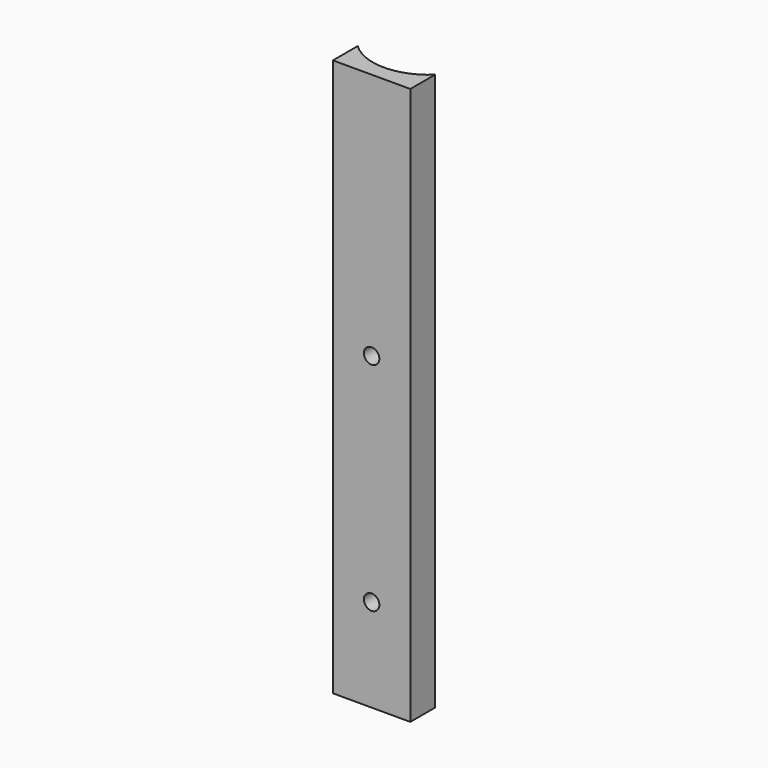
from build123d import *

# Parameters (mm, degrees)
F0_W     = 10
F0_H     = 180
F1_DEPTH = 12.5
F3_DEPTH = 180.001
F5_ANGLE = 90
F6_R     = 2.5
F7_DEPTH = 10.001


with BuildPart() as f1:
    # F0 (on Front) → F1 (new body, symmetric)
    with BuildSketch(Plane.XZ):
        Rectangle(F0_W, F0_H)
    extrude(amount=F1_DEPTH, both=True)

    # F2 (on face) → F3 (cut, through all)
    with BuildSketch(Plane.XY.offset(90)):
        with BuildLine():
            Line((-5, 12.5), (-5, -12.5))
            ThreePointArc((-5, -12.5), (0, 0), (-5, 12.5))
        make_face()
    extrude(amount=-F3_DEPTH, mode=Mode.SUBTRACT)


with BuildPart() as f1_1:
    # F5: moved
    add(f1.part.rotate(Axis((0, 0, 28.159656), (0, 0, -1)), F5_ANGLE))

    # F6 (on face) → F7 (cut, through all)
    with BuildSketch(Plane.XZ.offset(5)):
        with Locations((0, 10)):
            Circle(F6_R)
        with Locations((0, -60)):
            Circle(F6_R)
    extrude(amount=-F7_DEPTH, mode=Mode.SUBTRACT)


solid = f1_1.part
